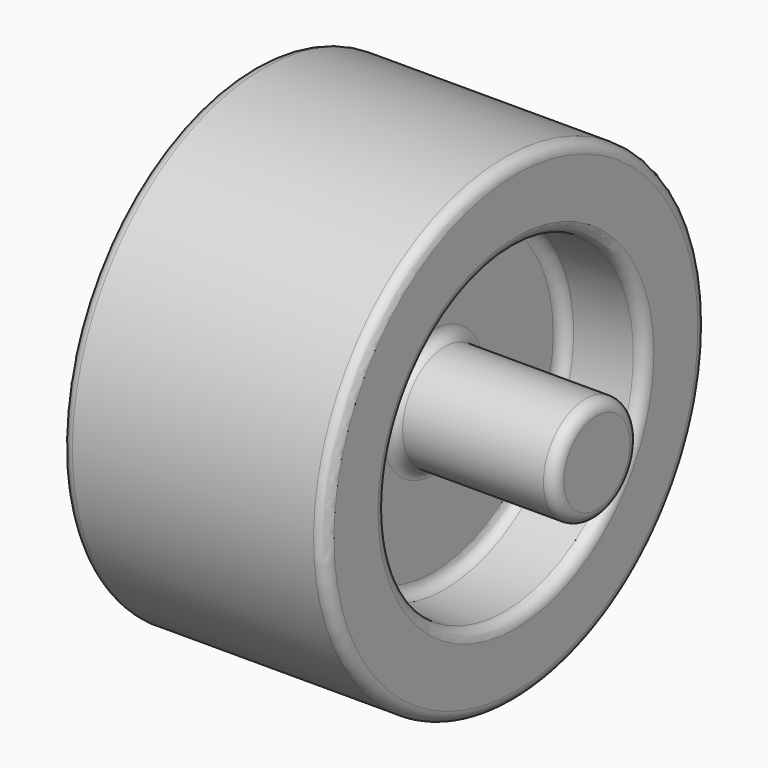
from build123d import *

# Parameters (mm, degrees)
F2_R     = 43.928902
F3_DEPTH = 12.7
F4_R     = 2.54


with BuildPart() as f1:
    # F0 (on Front) → F1 (revolve)
    with BuildSketch(Plane.XZ):
        Polygon((29.491942, 53.374995), (0, 53.374995), (-29.491942, 53.374995), (-29.491942, 36.005504), (-11.036861, 36.005504), (-11.036861, 11.760593), (-47.58516, 11.760593), (-47.58516, 0), (0, 0), (47.58516, 0), (47.58516, 11.760593), (11.036861, 11.760593), (11.036861, 36.005504), (29.491942, 36.005504), align=None)
    revolve(axis=Axis((-23.79258, 0, 0), (1, 0, 0)))

    # F2 (on Right) → F3 (join)
    with BuildSketch(Plane.YZ):
        with Locations((0.180928, 0.180932)):
            Circle(F2_R)
    extrude(amount=-F3_DEPTH)

    # F4
    f4_edges = [f1.edges().sort_by_distance(p)[0] for p in [
        (-29.491942, 0, -53.374995),
        (-29.491942, 0, -36.005504),
        (-47.58516, 0, -11.760593),
        (29.491942, 0, -53.374995),
        (29.491942, 0, -36.005504),
        (11.036861, 0, -11.760593),
        (11.036861, 0, -36.005504),
        (-12.7, 0, -11.760593),
        (-12.7, 0, -36.005504),
        (47.58516, 0, -11.760593),
    ]]
    fillet(f4_edges, radius=F4_R)


solid = f1.part
